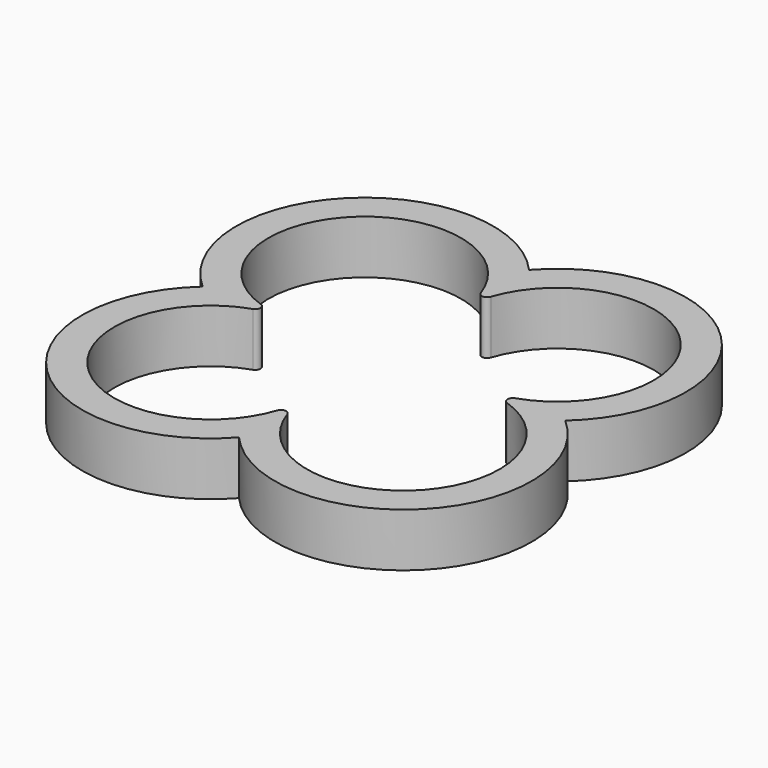
from build123d import *

# Parameters (mm, degrees)
F1_DEPTH = 5


with BuildPart() as f1:
    # F0 (on Top) → F1 (new body)
    with BuildSketch(Plane.XY):
        with BuildLine():
            ThreePointArc((6.855594, 32.013186), (7.403622, 49.498467), (-10.08166, 48.95044))
            ThreePointArc((-10.08166, 48.95044), (-27.566941, 49.498467), (-27.018914, 32.013186))
            ThreePointArc((-27.018914, 32.013186), (-27.566941, 14.527904), (-10.08166, 15.075932))
            ThreePointArc((-10.08166, 15.075932), (7.403622, 14.527904), (6.855594, 32.013186))
        make_face()
        with BuildLine():
            ThreePointArc((-10.555344, 20.131877), (-25.445621, 16.649225), (-21.962968, 31.539501))
            ThreePointArc((-21.962968, 31.539501), (-21.623041, 32.013186), (-21.962968, 32.48687))
            ThreePointArc((-21.962968, 32.48687), (-25.445621, 47.377147), (-10.555344, 43.894494))
            ThreePointArc((-10.555344, 43.894494), (-10.08166, 43.554567), (-9.607975, 43.894494))
            ThreePointArc((-9.607975, 43.894494), (5.282301, 47.377147), (1.799649, 32.48687))
            ThreePointArc((1.799649, 32.48687), (1.459722, 32.013186), (1.799649, 31.539501))
            ThreePointArc((1.799649, 31.539501), (5.282301, 16.649225), (-9.607975, 20.131877))
            ThreePointArc((-9.607975, 20.131877), (-10.08166, 20.471804), (-10.555344, 20.131877))
        make_face(mode=Mode.SUBTRACT)
    extrude(amount=F1_DEPTH)


solid = f1.part
